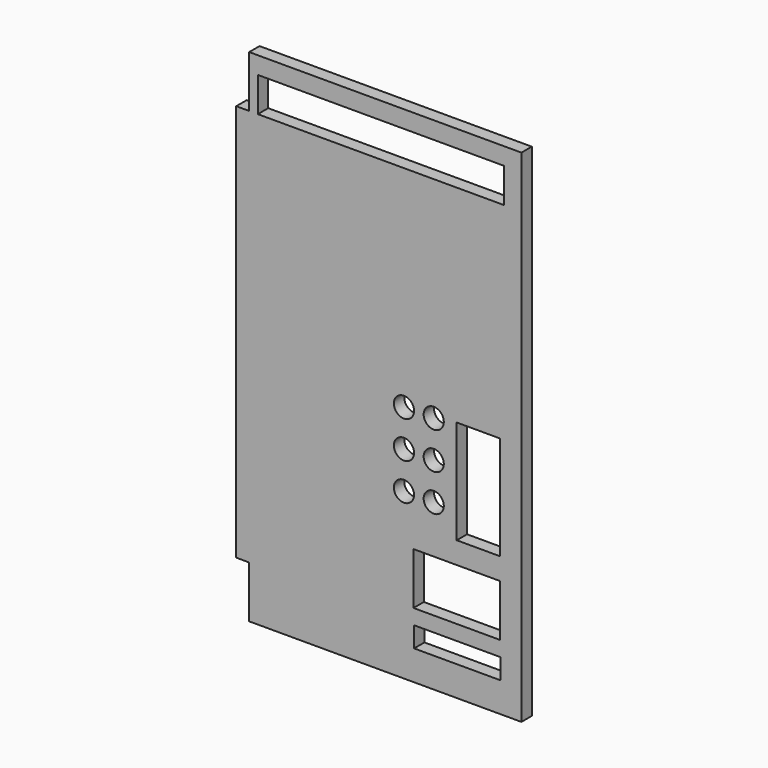
from build123d import *

# Parameters (mm, degrees)
F0_W     = 127
F0_H     = 29.954523
F0_H_2   = 76.2
F0_R     = 14.8209
F0_R_2   = 14.821966
F0_W_2   = 63.5
F0_H_3   = 152.4
F0_W_3   = 361.95
F0_H_4   = 50.8
F1_DEPTH = 19.05


with BuildPart() as f1:
    # F0 (on Front) → F1 (new body)
    with BuildSketch(Plane.XZ):
        Polygon((-197.495948, -510.700407), (202.554052, -510.700407), (202.554052, 225.899593), (-197.495948, 225.899593), (-197.495948, 149.699593), (-216.545948, 149.699593), (-216.545948, -434.500407), (-197.495948, -434.500407), align=None)
        with Locations((108.355583, -451.87582)):
            Rectangle(F0_W, F0_H, mode=Mode.SUBTRACT)
        with Locations((107.479723, -376.72687)):
            Rectangle(F0_W, F0_H_2, mode=Mode.SUBTRACT)
        with Locations((29.95467, -268.355429)):
            Circle(F0_R, mode=Mode.SUBTRACT)
        with Locations((73.69347, -268.355429)):
            Circle(F0_R, mode=Mode.SUBTRACT)
        with Locations((29.95467, -213.963177)):
            Circle(F0_R, mode=Mode.SUBTRACT)
        with Locations((29.964526, -159.592629)):
            Circle(F0_R_2, mode=Mode.SUBTRACT)
        with Locations((73.703326, -213.974029)):
            Circle(F0_R, mode=Mode.SUBTRACT)
        with Locations((73.703326, -159.592629)):
            Circle(F0_R, mode=Mode.SUBTRACT)
        with Locations((139.229723, -230.370343)):
            Rectangle(F0_W_2, F0_H_3, mode=Mode.SUBTRACT)
        with Locations((-3.820948, 175.099593)):
            Rectangle(F0_W_3, F0_H_4, mode=Mode.SUBTRACT)
    extrude(amount=F1_DEPTH)


solid = f1.part
